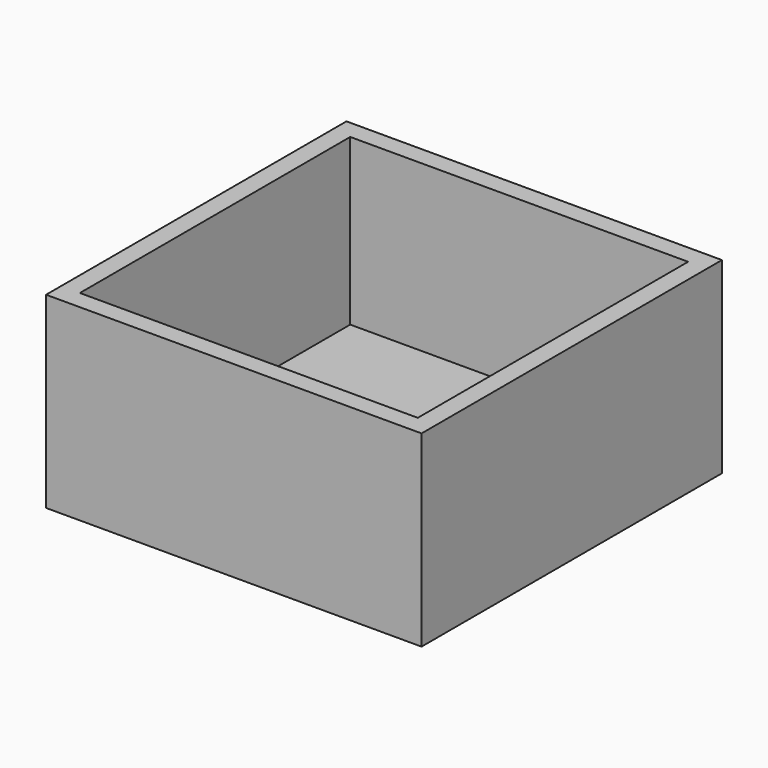
from build123d import *

# Parameters (mm, degrees)
BOX002_W          = 45
BOX002_H          = 45
BOX002_DEPTH      = 25
BOX001_W          = 50
BOX001_H          = 50
BOX001_DEPTH      = 25
CYLINDER_R        = 3.15
CYLINDER_DEPTH    = 10
CYLINDER001_R     = 7
CYLINDER001_DEPTH = 10
BOX_W             = 50
BOX_H             = 50
BOX_DEPTH         = 3


with BuildPart() as cube002:
    # Box002 → Box002 (new body)
    with BuildSketch(Plane(origin=(-22.5, -22.5, 0), x_dir=(1, 0, 0), z_dir=(0, 0, 1))):
        with Locations((22.5, 22.5)):
            Rectangle(BOX002_W, BOX002_H)
    extrude(amount=BOX002_DEPTH)


with BuildPart() as cut002:
    # Box001 → Box001 (new body)
    with BuildSketch(Plane(origin=(-25, -25, 0), x_dir=(1, 0, 0), z_dir=(0, 0, 1))):
        with Locations((25, 25)):
            Rectangle(BOX001_W, BOX001_H)
    extrude(amount=BOX001_DEPTH)

    # Cut002: cut Cube002
    add(cube002.part, mode=Mode.SUBTRACT)


with BuildPart() as cylinder:
    # Cylinder → Cylinder (new body)
    with BuildSketch(Plane.XY):
        Circle(CYLINDER_R)
    extrude(amount=CYLINDER_DEPTH)


with BuildPart() as cylinder001:
    # Cylinder001 → Cylinder001 (new body)
    with BuildSketch(Plane.XY.offset(2)):
        Circle(CYLINDER001_R)
    extrude(amount=CYLINDER001_DEPTH)


with BuildPart() as fusion:
    # Box → Box (new body)
    with BuildSketch(Plane(origin=(-25, -25, 0), x_dir=(1, 0, 0), z_dir=(0, 0, 1))):
        with Locations((25, 25)):
            Rectangle(BOX_W, BOX_H)
    extrude(amount=BOX_DEPTH)

    # Cut: cut Cylinder001
    add(cylinder001.part, mode=Mode.SUBTRACT)

    # Cut003: cut Cylinder
    add(cylinder.part, mode=Mode.SUBTRACT)

    # Fusion: union Cut002
    add(cut002.part)


solid = fusion.part
